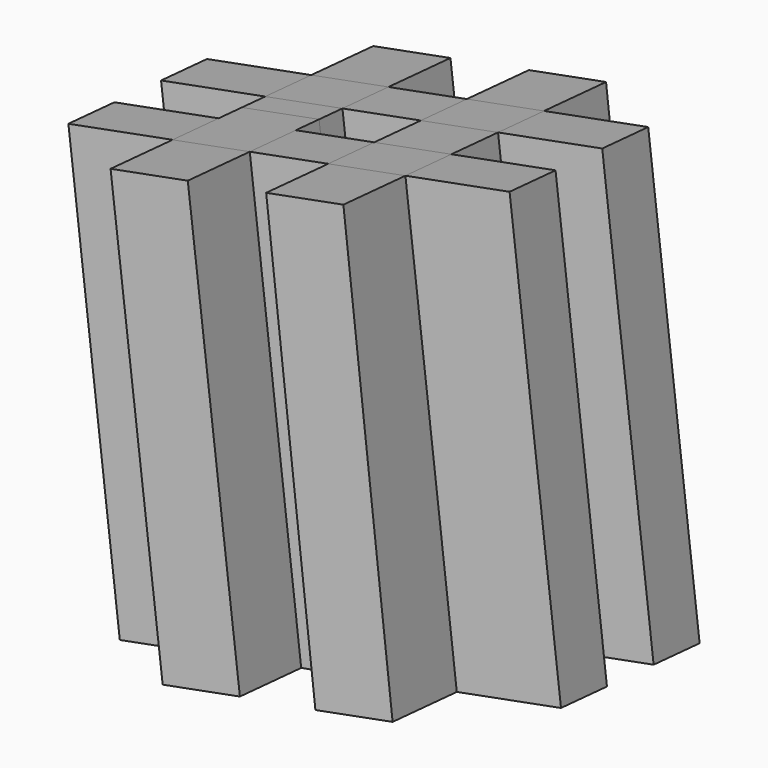
from build123d import *


with BuildPart() as f10:
    # F9 (on face) → F10 section 0
    with BuildSketch(Plane(origin=(-8.5553318564, 8.4253571417, 47.7825747818), x_dir=(0.984807753, 0.0301536896, 0.1710100717), z_dir=(-0.1736481777, 0.1710100717, 0.9698463104))):
        Polygon((2.1860655611, 7.9241877769), (3.7297978606, -0.8307531474), (12.6197978606, -0.8307531474), (11.0760655611, 7.9241877769), align=None)
    # F5 (on face) → F10 section 1
    with BuildSketch(Plane(origin=(0, 0, 0), x_dir=(0.984807753, 0.0301536896, 0.1710100717), z_dir=(0.1736481777, -0.1710100717, -0.9698463104))):
        Polygon((11.0760655611, -13.1999409243), (12.6197978606, -4.445), (3.7297978606, -4.445), (2.1860655611, -13.1999409243), align=None)
    loft()


with BuildPart() as f11:
    # F5 (on face) → F11 section 0
    with BuildSketch(Plane(origin=(0, 0, 0), x_dir=(0.984807753, 0.0301536896, 0.1710100717), z_dir=(0.1736481777, -0.1710100717, -0.9698463104))):
        Polygon((-5.2973447191, -4.445), (-14.1873447191, -4.445), (-15.7310770185, -13.1999409243), (-6.8410770185, -13.1999409243), align=None)
    # F9 (on face) → F11 section 1
    with BuildSketch(Plane(origin=(-8.5553318564, 8.4253571417, 47.7825747818), x_dir=(0.984807753, 0.0301536896, 0.1710100717), z_dir=(-0.1736481777, 0.1710100717, 0.9698463104))):
        Polygon((-15.7310770185, 7.9241877769), (-14.1873447191, -0.8307531474), (-5.2973447191, -0.8307531474), (-6.8410770185, 7.9241877769), align=None)
    loft()


with BuildPart() as f12:
    # F9 (on face) → F12 section 0
    with BuildSketch(Plane(origin=(-8.5553318564, 8.4253571417, 47.7825747818), x_dir=(0.984807753, 0.0301536896, 0.1710100717), z_dir=(-0.1736481777, 0.1710100717, 0.9698463104))):
        Polygon((-3.7297978606, -9.7207531474), (-12.6197978606, -9.7207531474), (-11.0760655611, -18.4756940717), (-2.1860655611, -18.4756940717), align=None)
    # F5 (on face) → F12 section 1
    with BuildSketch(Plane(origin=(0, 0, 0), x_dir=(0.984807753, 0.0301536896, 0.1710100717), z_dir=(0.1736481777, -0.1710100717, -0.9698463104))):
        Polygon((-2.1860655611, 13.1999409243), (-11.0760655611, 13.1999409243), (-12.6197978606, 4.445), (-3.7297978606, 4.445), align=None)
    loft()

    # F5 (on face) → F24 section 0
    with BuildSketch(Plane(origin=(0, 0, 0), x_dir=(0.984807753, 0.0301536896, 0.1710100717), z_dir=(0.1736481777, -0.1710100717, -0.9698463104))):
        Polygon((-3.7297978606, 4.445), (-12.6197978606, 4.445), (-13.4280720273, -0.138950587), (-4.5380720273, -0.138950587), align=None)
    # F9 (on face) → F24 section 1
    with BuildSketch(Plane(origin=(-8.5553318564, 8.4253571417, 47.7825747818), x_dir=(0.984807753, 0.0301536896, 0.1710100717), z_dir=(-0.1736481777, 0.1710100717, 0.9698463104))):
        Polygon((-4.5135712898, -5.2757531474), (-13.4035712898, -5.2757531474), (-12.6197978606, -9.7207531474), (-3.7297978606, -9.7207531474), align=None)
    loft()


with BuildPart() as f13:
    # F9 (on face) → F13 section 0
    with BuildSketch(Plane(origin=(-8.5553318564, 8.4253571417, 47.7825747818), x_dir=(0.984807753, 0.0301536896, 0.1710100717), z_dir=(-0.1736481777, 0.1710100717, 0.9698463104))):
        Polygon((14.1873447191, -9.7207531474), (5.2973447191, -9.7207531474), (6.8410770185, -18.4756940717), (15.7310770185, -18.4756940717), align=None)
    # F5 (on face) → F13 section 1
    with BuildSketch(Plane(origin=(0, 0, 0), x_dir=(0.984807753, 0.0301536896, 0.1710100717), z_dir=(0.1736481777, -0.1710100717, -0.9698463104))):
        Polygon((15.7310770185, 13.1999409243), (6.8410770185, 13.1999409243), (5.2973447191, 4.445), (14.1873447191, 4.445), align=None)
    loft()


with BuildPart() as f14:
    # F5 (on face) → F14 section 0
    with BuildSketch(Plane(origin=(0, 0, 0), x_dir=(0.984807753, 0.0301536896, 0.1710100717), z_dir=(0.1736481777, -0.1710100717, -0.9698463104))):
        Polygon((-11.0760655611, 13.1999409243), (-23.0724942713, 13.1999409243), (-24.6162265708, 4.445), (-12.6197978606, 4.445), align=None)
    # F9 (on face) → F14 section 1
    with BuildSketch(Plane(origin=(-8.5553318564, 8.4253571417, 47.7825747818), x_dir=(0.984807753, 0.0301536896, 0.1710100717), z_dir=(-0.1736481777, 0.1710100717, 0.9698463104))):
        Polygon((-11.0760655611, -18.4756940717), (-12.6197978606, -9.7207531474), (-24.6162265708, -9.7207531474), (-23.0724942713, -18.4756940717), align=None)
    loft()


with BuildPart() as f15:
    # F9 (on face) → F15 section 0
    with BuildSketch(Plane(origin=(-8.5553318564, 8.4253571417, 47.7825747818), x_dir=(0.984807753, 0.0301536896, 0.1710100717), z_dir=(-0.1736481777, 0.1710100717, 0.9698463104))):
        Polygon((-26.1837734292, -0.8307531474), (-14.1873447191, -0.8307531474), (-15.7310770185, 7.9241877769), (-27.7275057287, 7.9241877769), align=None)
    # F5 (on face) → F15 section 1
    with BuildSketch(Plane(origin=(0, 0, 0), x_dir=(0.984807753, 0.0301536896, 0.1710100717), z_dir=(0.1736481777, -0.1710100717, -0.9698463104))):
        Polygon((-15.7310770185, -13.1999409243), (-14.1873447191, -4.445), (-26.1837734292, -4.445), (-27.7275057287, -13.1999409243), align=None)
    loft()


with BuildPart() as f16:
    # F5 (on face) → F16 section 0
    with BuildSketch(Plane(origin=(0, 0, 0), x_dir=(0.984807753, 0.0301536896, 0.1710100717), z_dir=(0.1736481777, -0.1710100717, -0.9698463104))):
        Polygon((-6.8410770185, -13.1999409243), (-15.7310770185, -13.1999409243), (-17.83873574, -25.1530675135), (-8.94873574, -25.1530675135), align=None)
    # F9 (on face) → F16 section 1
    with BuildSketch(Plane(origin=(-8.5553318564, 8.4253571417, 47.7825747818), x_dir=(0.984807753, 0.0301536896, 0.1710100717), z_dir=(-0.1736481777, 0.1710100717, 0.9698463104))):
        Polygon((-17.8142350026, 19.7383637791), (-15.7310770185, 7.9241877769), (-6.8410770185, 7.9241877769), (-8.9242350026, 19.7383637791), align=None)
    loft()


with BuildPart() as f17:
    # F5 (on face) → F17 section 0
    with BuildSketch(Plane(origin=(0, 0, 0), x_dir=(0.984807753, 0.0301536896, 0.1710100717), z_dir=(0.1736481777, -0.1710100717, -0.9698463104))):
        Polygon((9.065665347, -24.6014871089), (11.0760655611, -13.1999409243), (2.1860655611, -13.1999409243), (0.175665347, -24.6014871089), align=None)
    # F9 (on face) → F17 section 1
    with BuildSketch(Plane(origin=(-8.5553318564, 8.4253571417, 47.7825747818), x_dir=(0.984807753, 0.0301536896, 0.1710100717), z_dir=(-0.1736481777, 0.1710100717, 0.9698463104))):
        Polygon((0.1029075771, 19.7383637791), (2.1860655611, 7.9241877769), (11.0760655611, 7.9241877769), (8.9929075771, 19.7383637791), align=None)
    loft()


with BuildPart() as f18:
    # F5 (on face) → F18 section 0
    with BuildSketch(Plane(origin=(0, 0, 0), x_dir=(0.984807753, 0.0301536896, 0.1710100717), z_dir=(0.1736481777, -0.1710100717, -0.9698463104))):
        Polygon((24.6162265708, -4.445), (12.6197978606, -4.445), (11.0760655611, -13.1999409243), (23.0724942713, -13.1999409243), align=None)
    # F9 (on face) → F18 section 1
    with BuildSketch(Plane(origin=(-8.5553318564, 8.4253571417, 47.7825747818), x_dir=(0.984807753, 0.0301536896, 0.1710100717), z_dir=(-0.1736481777, 0.1710100717, 0.9698463104))):
        Polygon((11.0760655611, 7.9241877769), (12.6197978606, -0.8307531474), (24.6162265708, -0.8307531474), (23.0724942713, 7.9241877769), align=None)
    loft()


with BuildPart() as f19:
    # F9 (on face) → F19 section 0
    with BuildSketch(Plane(origin=(-8.5553318564, 8.4253571417, 47.7825747818), x_dir=(0.984807753, 0.0301536896, 0.1710100717), z_dir=(-0.1736481777, 0.1710100717, 0.9698463104))):
        Polygon((26.1837734292, -9.7207531474), (14.1873447191, -9.7207531474), (15.7310770185, -18.4756940717), (27.7275057287, -18.4756940717), align=None)
    # F5 (on face) → F19 section 1
    with BuildSketch(Plane(origin=(0, 0, 0), x_dir=(0.984807753, 0.0301536896, 0.1710100717), z_dir=(0.1736481777, -0.1710100717, -0.9698463104))):
        Polygon((27.7275057287, 13.1999409243), (15.7310770185, 13.1999409243), (14.1873447191, 4.445), (26.1837734292, 4.445), align=None)
    loft()


with BuildPart() as f20:
    # F5 (on face) → F20 section 0
    with BuildSketch(Plane(origin=(0, 0, 0), x_dir=(0.984807753, 0.0301536896, 0.1710100717), z_dir=(0.1736481777, -0.1710100717, -0.9698463104))):
        Polygon((8.9969927725, 25.4267467441), (6.8410770185, 13.1999409243), (15.7310770185, 13.1999409243), (17.8869927725, 25.4267467441), align=None)
    # F9 (on face) → F20 section 1
    with BuildSketch(Plane(origin=(-8.5553318564, 8.4253571417, 47.7825747818), x_dir=(0.984807753, 0.0301536896, 0.1710100717), z_dir=(-0.1736481777, 0.1710100717, 0.9698463104))):
        Polygon((15.7310770185, -18.4756940717), (6.8410770185, -18.4756940717), (8.9242350026, -30.2898700739), (17.8142350026, -30.2898700739), align=None)
    loft()


with BuildPart() as f21:
    # F5 (on face) → F21 section 0
    with BuildSketch(Plane(origin=(0, 0, 0), x_dir=(0.984807753, 0.0301536896, 0.1710100717), z_dir=(0.1736481777, -0.1710100717, -0.9698463104))):
        Polygon((-9.0174083146, 24.8751663395), (-11.0760655611, 13.1999409243), (-2.1860655611, 13.1999409243), (-0.1274083146, 24.8751663395), align=None)
    # F9 (on face) → F21 section 1
    with BuildSketch(Plane(origin=(-8.5553318564, 8.4253571417, 47.7825747818), x_dir=(0.984807753, 0.0301536896, 0.1710100717), z_dir=(-0.1736481777, 0.1710100717, 0.9698463104))):
        Polygon((-2.1860655611, -18.4756940717), (-11.0760655611, -18.4756940717), (-8.9929075771, -30.2898700739), (-0.1029075771, -30.2898700739), align=None)
    loft()


with BuildPart() as f22:
    # F9 (on face) → F22 section 0
    with BuildSketch(Plane(origin=(-8.5553318564, 8.4253571417, 47.7825747818), x_dir=(0.984807753, 0.0301536896, 0.1710100717), z_dir=(-0.1736481777, 0.1710100717, 0.9698463104))):
        Polygon((-6.8410770185, 7.9241877769), (-5.2973447191, -0.8307531474), (-0.7837734292, -0.8307531474), (3.7297978606, -0.8307531474), (2.1860655611, 7.9241877769), align=None)
    # F5 (on face) → F22 section 1
    with BuildSketch(Plane(origin=(0, 0, 0), x_dir=(0.984807753, 0.0301536896, 0.1710100717), z_dir=(0.1736481777, -0.1710100717, -0.9698463104))):
        Polygon((-0.7837734292, -4.445), (-5.2973447191, -4.445), (-6.8410770185, -13.1999409243), (2.1860655611, -13.1999409243), (3.7297978606, -4.445), align=None)
    loft()


with BuildPart() as f23:
    # F5 (on face) → F23 section 0
    with BuildSketch(Plane(origin=(0, 0, 0), x_dir=(0.984807753, 0.0301536896, 0.1710100717), z_dir=(0.1736481777, -0.1710100717, -0.9698463104))):
        Polygon((14.1873447191, 4.445), (5.2973447191, 4.445), (4.5380720273, 0.138950587), (3.7297978606, -4.445), (12.6197978606, -4.445), align=None)
    # F9 (on face) → F23 section 1
    with BuildSketch(Plane(origin=(-8.5553318564, 8.4253571417, 47.7825747818), x_dir=(0.984807753, 0.0301536896, 0.1710100717), z_dir=(-0.1736481777, 0.1710100717, 0.9698463104))):
        Polygon((3.7297978606, -0.8307531474), (4.5135712898, -5.2757531474), (5.2973447191, -9.7207531474), (14.1873447191, -9.7207531474), (12.6197978606, -0.8307531474), align=None)
    loft()


with BuildPart() as f25:
    # F5 (on face) → F25 section 0
    with BuildSketch(Plane(origin=(0, 0, 0), x_dir=(0.984807753, 0.0301536896, 0.1710100717), z_dir=(0.1736481777, -0.1710100717, -0.9698463104))):
        Polygon((-4.5380720273, -0.138950587), (-13.4280720273, -0.138950587), (-14.1873447191, -4.445), (-5.2973447191, -4.445), align=None)
    # F9 (on face) → F25 section 1
    with BuildSketch(Plane(origin=(-8.5553318564, 8.4253571417, 47.7825747818), x_dir=(0.984807753, 0.0301536896, 0.1710100717), z_dir=(-0.1736481777, 0.1710100717, 0.9698463104))):
        Polygon((-14.1873447191, -0.8307531474), (-13.4035712898, -5.2757531474), (-4.5135712898, -5.2757531474), (-5.2973447191, -0.8307531474), align=None)
    loft()


with BuildPart() as f26:
    # F5 (on face) → F26 section 0
    with BuildSketch(Plane(origin=(0, 0, 0), x_dir=(0.984807753, 0.0301536896, 0.1710100717), z_dir=(0.1736481777, -0.1710100717, -0.9698463104))):
        Polygon((6.8410770185, 13.1999409243), (-2.1860655611, 13.1999409243), (-3.7297978606, 4.445), (0.7837734292, 4.445), (5.2973447191, 4.445), align=None)
    # F9 (on face) → F26 section 1
    with BuildSketch(Plane(origin=(-8.5553318564, 8.4253571417, 47.7825747818), x_dir=(0.984807753, 0.0301536896, 0.1710100717), z_dir=(-0.1736481777, 0.1710100717, 0.9698463104))):
        Polygon((0.7837734292, -9.7207531474), (-3.7297978606, -9.7207531474), (-2.1860655611, -18.4756940717), (6.8410770185, -18.4756940717), (5.2973447191, -9.7207531474), align=None)
    loft()


solid = Compound([f10.part, f11.part, f12.part, f13.part, f14.part, f15.part, f16.part, f17.part, f18.part, f19.part, f20.part, f21.part, f22.part, f23.part, f25.part, f26.part])
